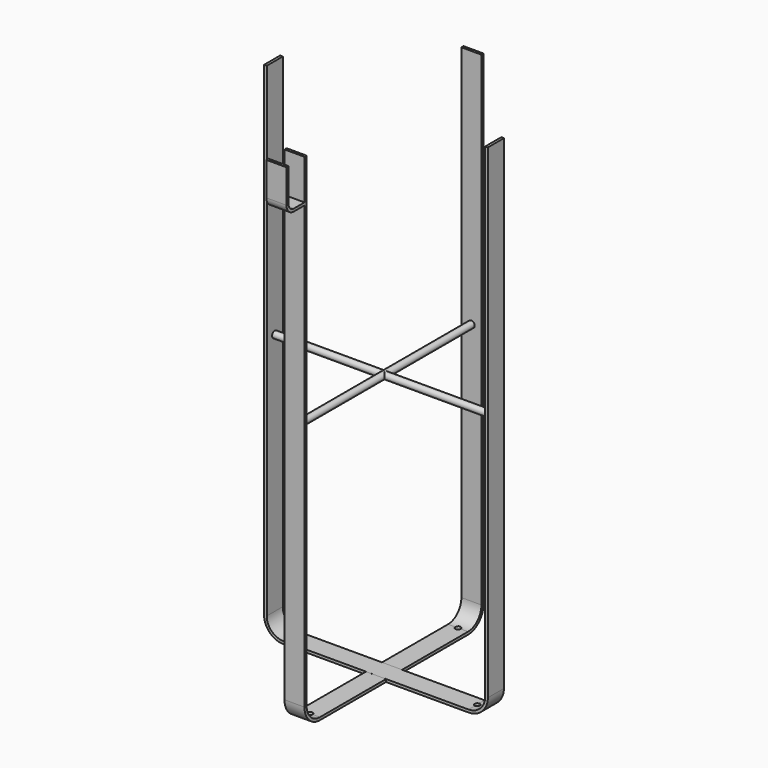
from build123d import *

# Parameters (mm, degrees)
F1_DEPTH       = 30
F4_W           = 30
F4_H           = 4
F7_R           = 5
F8_DEPTH       = 334
F9_R           = 5
F10_DEPTH      = 334
F11_R          = 4
F12_DEPTH      = 25
F14_DEPTH      = 15
F14_DEPTH_BACK = 15


with BuildPart() as f1:
    # F0 (on Right) → F1 (new body)
    with BuildSketch(Plane.YZ):
        with BuildLine():
            Line((0, -725), (0, 0))
            Line((0, 0), (-4, 0))
            Line((-4, 0), (-4, -725))
            ThreePointArc((-4, -725), (4.4939033456, -745.5060966544), (25, -754))
            Line((25, -754), (302, -754))
            ThreePointArc((302, -754), (322.5060966544, -745.5060966544), (331, -725))
            Line((331, -725), (331, 0))
            Line((331, 0), (327, 0))
            Line((327, 0), (327, -725))
            ThreePointArc((327, -725), (319.6776695297, -742.6776695297), (302, -750))
            Line((302, -750), (25, -750))
            ThreePointArc((25, -750), (7.3223304703, -742.6776695297), (0, -725))
        make_face()
    extrude(amount=F1_DEPTH)

    # F6: sweep along a path in F5
    with BuildLine(Plane.XZ.offset(-148.5)) as f6_path:
        Line((-148.5, 0), (-148.5, -725))
        ThreePointArc((-148.5, -725), (-141.1776695297, -742.6776695297), (-123.5, -750))
        Line((-123.5, -750), (153.5, -750))
        ThreePointArc((153.5, -750), (171.1776695297, -742.6776695297), (178.5, -725))
        Line((178.5, -725), (178.5, 0))
    # F4 (on offset) → F6 (sweep)
    with BuildSketch(Plane.YZ.offset(15)):
        with Locations((163.5060608387, -751.9651731714)):
            Rectangle(F4_W, F4_H)
    sweep(path=f6_path.line)

    # F7 (on face) → F8 (join)
    with BuildSketch(Plane.YZ.offset(182.4651731714)):
        with Locations((163.5060608387, -360)):
            Circle(F7_R)
    extrude(amount=-F8_DEPTH)

    # F9 (on face) → F10 (join)
    with BuildSketch(Plane.XZ.offset(4)):
        with Locations((15, -360)):
            Circle(F9_R)
    extrude(amount=-F10_DEPTH)

    # F11 (on face) → F12 (cut)
    with BuildSketch(Plane(origin=(0, 0, -754), x_dir=(1, 0, 0), z_dir=(0, 0, -1))):
        with Locations((15, -25)):
            Circle(F11_R)
        with Locations((15, -302)):
            Circle(F11_R)
        with Locations((-123.1007874012, -163.7377291918)):
            Circle(F11_R)
        with Locations((154.1218459606, -164.2482578754)):
            Circle(F11_R)
    extrude(amount=-F12_DEPTH, mode=Mode.SUBTRACT)

    # F13 (on offset) → F14 (join, two sides)
    with BuildSketch(Plane.YZ.offset(15)) as f14_sk:
        with BuildLine():
            Line((-3.8402353227, -64), (-3.8402353227, -60))
            Line((-3.8402353227, -60), (-23.8402353227, -60))
            ThreePointArc((-23.8402353227, -60), (-30.9113031346, -57.0710678119), (-33.8402353227, -50))
            Line((-33.8402353227, -50), (-33.8402353227, 0))
            Line((-33.8402353227, 0), (-37.8402353227, 0))
            Line((-37.8402353227, 0), (-37.8402353227, -50))
            ThreePointArc((-37.8402353227, -50), (-33.7397302593, -59.8994949366), (-23.8402353227, -64))
            Line((-23.8402353227, -64), (-3.8402353227, -64))
        make_face()
    extrude(amount=F14_DEPTH)
    extrude(f14_sk.sketch, amount=-F14_DEPTH_BACK)


solid = f1.part
